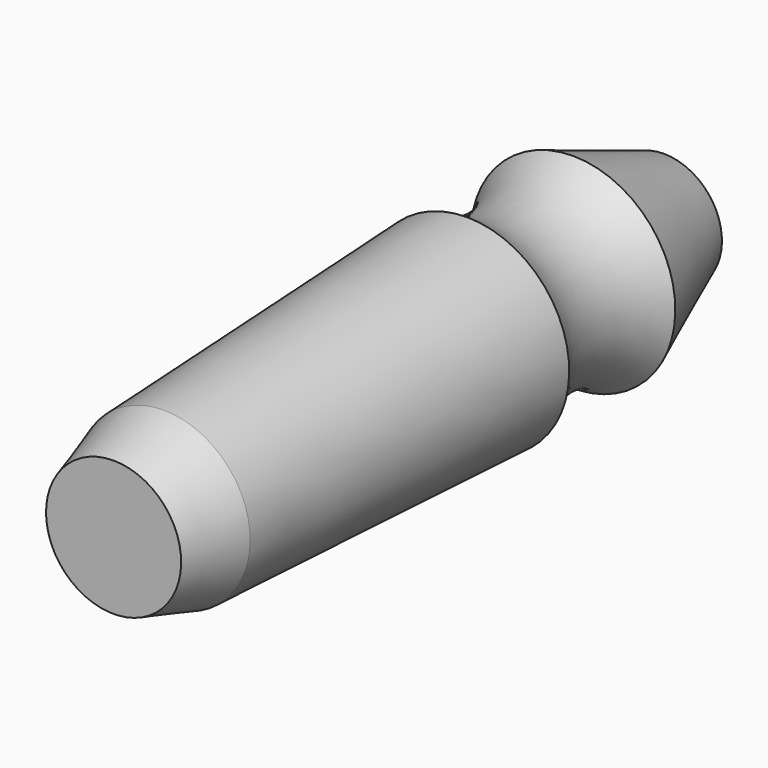
from build123d import *


with BuildPart() as f1:
    # F0 (on Right) → F1 (revolve)
    with BuildSketch(Plane.YZ):
        with BuildLine():
            Line((-175.364378, 0), (175.364378, 0))
            Line((175.364378, 0), (175.364378, 29.526058))
            Line((175.364378, 29.526058), (117.368373, 52.152279))
            ThreePointArc((117.368373, 52.152279), (83.562382, 41.050664), (49.75639, 52.152279))
            Line((49.75639, 52.152279), (-143.319937, 43.982032))
            Line((-143.319937, 43.982032), (-175.364378, 34.435312))
            Line((-175.364378, 34.435312), (-175.364378, 0))
        make_face()
    revolve(axis=Axis((0, 0, 0), (0, -1, 0)))


solid = f1.part
